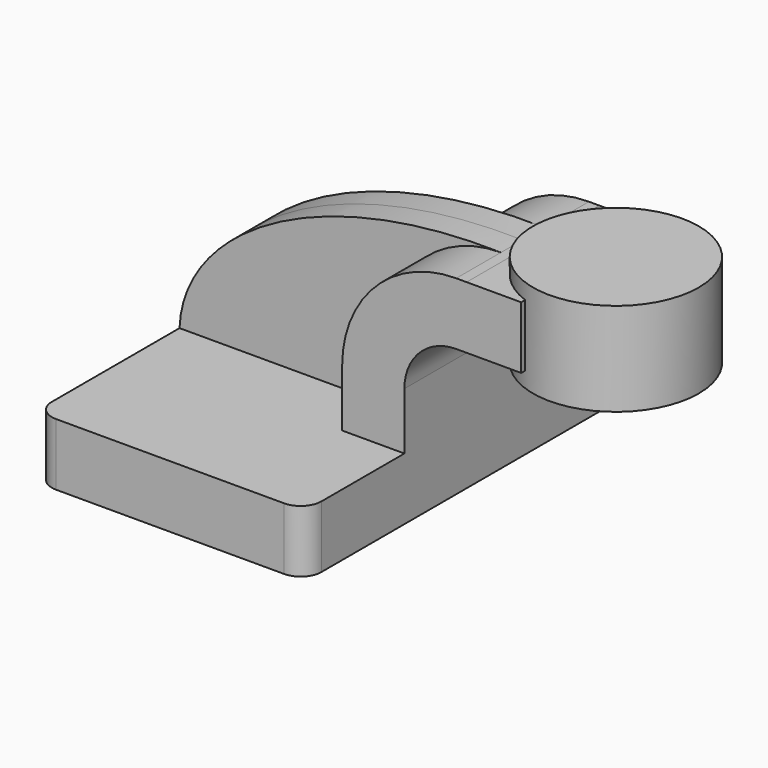
from build123d import *

# Parameters (mm, degrees)
F1_DEPTH = 63.5
F0_W     = 16.733868
F0_H     = 19.049999
F2_DEPTH = 25.4
F3_DEPTH = 8.2804
F0_W_2   = 25.4
F0_H_2   = 28.575
F5_R     = 6.35


with BuildPart() as f1:
    # F0 (on Front) → F1 (new body, symmetric)
    with BuildSketch(Plane.XZ):
        Polygon((41.275, -9.525), (41.275, 9.525), (22.225001, 9.525), (-41.275, 9.525), (-41.275, -9.525), align=None)
    extrude(amount=F1_DEPTH, both=True)

    # F0 (on Front) → F2 (join, symmetric)
    with BuildSketch(Plane.XZ):
        with BuildLine():
            Line((22.225001, 9.525), (41.275, 9.525))
            Line((41.275, 9.525), (41.275, 27.0002))
            ThreePointArc((41.275, 27.0002), (45.92468, 38.22552), (57.15, 42.8752))
            Line((57.15, 42.8752), (60.325, 42.8752))
            Line((60.325, 42.8752), (60.325, 61.925199))
            Line((60.325, 61.925199), (57.15, 61.925199))
            ThreePointArc((57.15, 61.925199), (32.454296, 51.695904), (22.225001, 27.0002))
            Line((22.225001, 27.0002), (22.225001, 9.525))
        make_face()
        with Locations((68.691934, 52.400199)):
            Rectangle(F0_W, F0_H)
    extrude(amount=F2_DEPTH, both=True)

    # F0 (on Front) → F3 (join, symmetric)
    with BuildSketch(Plane.XZ):
        with BuildLine():
            Line((-41.275, 9.525), (22.225001, 9.525))
            Line((22.225001, 9.525), (22.225001, 27.0002))
            ThreePointArc((22.225001, 27.0002), (32.454296, 51.695904), (57.15, 61.925199))
            add(Edge.make_bspline(
                [(-41.275, 9.525), (-40.269591, 37.765782), (0, 63.221171), (57.15, 61.925199)],
                knots=[0, 0, 0, 0, 111.504536, 111.504536, 111.504536, 111.504536], degree=3))
        make_face()
    extrude(amount=F3_DEPTH, both=True)

    # F0 (on Front) → F4 (revolve)
    with BuildSketch(Plane.XZ):
        with Locations((98.425, 52.3875)):
            Rectangle(F0_W_2, F0_H_2)
    revolve(axis=Axis((85.725, 0, 52.3875), (0, 0, 1)))

    # F5
    f5_edges = [f1.edges().sort_by_distance(p)[0] for p in [
        (41.275, -63.5, 0),
        (-41.275, -63.5, 0),
        (41.275, 63.5, 0),
        (-41.275, 63.5, 0),
    ]]
    fillet(f5_edges, radius=F5_R)


solid = f1.part
